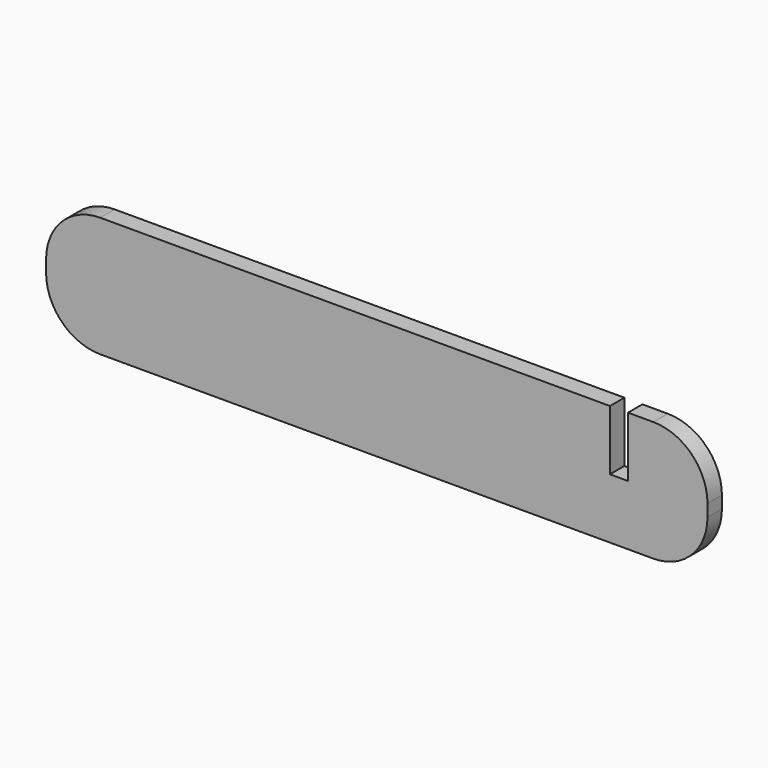
from build123d import *

# Parameters (mm, degrees)
F0_W     = 110
F0_H     = 20
F1_DEPTH = 3
F2_R     = 9
F3_W     = 3
F3_H     = 10
F4_DEPTH = 3


with BuildPart() as f1:
    # F0 (on Front) → F1 (new body)
    with BuildSketch(Plane.XZ):
        with Locations((59.607332, 10)):
            Rectangle(F0_W, F0_H)
    extrude(amount=F1_DEPTH)

    # F2
    f2_edges = [f1.edges().sort_by_distance(p)[0] for p in [
        (4.607332, -1.5, 20),
        (4.607332, -1.5, 0),
        (114.607332, -1.5, 20),
        (114.607332, -1.5, 0),
    ]]
    fillet(f2_edges, radius=F2_R)

    # F3 (on face) → F4 (cut)
    with BuildSketch(Plane.XZ.offset(3)):
        with Locations((99.883784, 15)):
            Rectangle(F3_W, F3_H)
    extrude(amount=-F4_DEPTH, mode=Mode.SUBTRACT)


solid = f1.part
